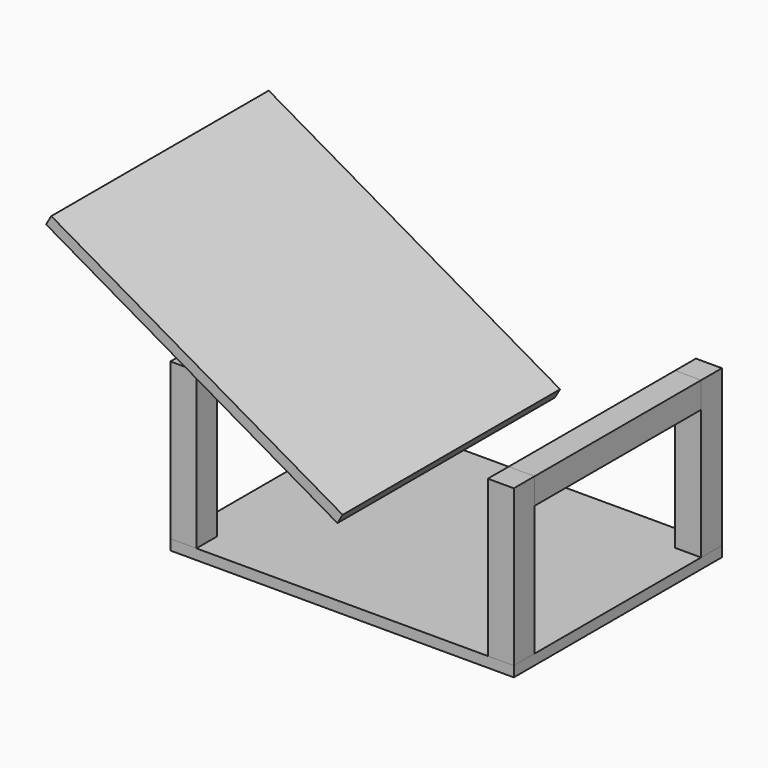
from build123d import *

# Parameters (mm, degrees)
F0_W      = 330
F0_H      = 250
F1_DEPTH  = 10
F2_W      = 25
F2_H      = 25
F3_DEPTH  = 150
F4_W      = 25
F4_H      = 25
F5_DEPTH  = 200
F6_W      = 25
F6_H      = 25
F7_DEPTH  = 200
F10_W     = 323.301615
F10_H     = 261.20604
F11_DEPTH = 10


with BuildPart() as f1:
    # F0 (on Top) → F1 (new body)
    with BuildSketch(Plane.XY):
        Rectangle(F0_W, F0_H)
    extrude(amount=F1_DEPTH)


with BuildPart() as f3:
    # F2 (on face) → F3 (new body)
    with BuildSketch(Plane.XY.offset(10)):
        with Locations((152.5, 112.5)):
            Rectangle(F2_W, F2_H)
        with Locations((-152.5, -112.5)):
            Rectangle(F2_W, F2_H)
        with Locations((152.5, -112.5)):
            Rectangle(F2_W, F2_H)
        with Locations((-152.5, 112.5)):
            Rectangle(F2_W, F2_H)
    extrude(amount=F3_DEPTH)


with BuildPart() as f5:
    # F4 (on face) → F5 (new body)
    with BuildSketch(Plane.XZ.offset(-100)):
        with Locations((152.5, 147.5)):
            Rectangle(F4_W, F4_H)
    extrude(amount=F5_DEPTH)


with BuildPart() as f7:
    # F6 (on face) → F7 (new body)
    with BuildSketch(Plane.XZ.offset(-100)):
        with Locations((-152.5, 147.5)):
            Rectangle(F6_W, F6_H)
    extrude(amount=F7_DEPTH)


with BuildPart() as f11:
    # F10 (on face) → F11 (new body)
    with BuildSketch(Plane(origin=(34.282032, 0, 59.378222), x_dir=(0.866025, 0, -0.5), z_dir=(0.5, 0, 0.866025))):
        with Locations((-201.243594, 0)):
            Rectangle(F10_W, F10_H)
    extrude(amount=F11_DEPTH)


solid = Compound([f1.part, f3.part, f5.part, f7.part, f11.part])
